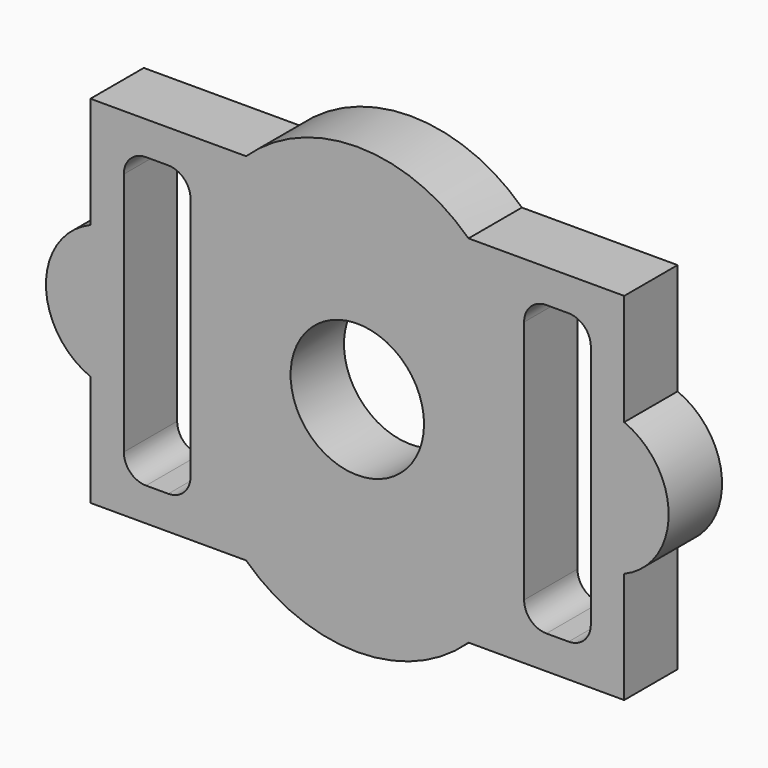
from build123d import *

# Parameters (mm, degrees)
F0_R     = 30
F1_DEPTH = 30


with BuildPart() as f1:
    # F0 (on Front) → F1 (new body)
    with BuildSketch(Plane.XZ):
        with BuildLine():
            Line((-50, 80), (-120, 80))
            Line((-120, 80), (-120, 30))
            ThreePointArc((-120, 30), (-140, 0), (-120, -30))
            Line((-120, -30), (-120, -80))
            Line((-120, -80), (-50, -80))
            ThreePointArc((-50, -80), (0, -100), (50, -80))
            Line((50, -80), (120, -80))
            Line((120, -80), (120, -30))
            ThreePointArc((120, -30), (140, 0), (120, 30))
            Line((120, 30), (120, 80))
            Line((120, 80), (50, 80))
            ThreePointArc((50, 80), (0, 100), (-50, 80))
        make_face()
        with BuildLine():
            ThreePointArc((-105, 55), (-102.071068, 62.071068), (-95, 65))
            Line((-95, 65), (-85, 65))
            ThreePointArc((-85, 65), (-77.928932, 62.071068), (-75, 55))
            Line((-75, 55), (-75, -55))
            ThreePointArc((-75, -55), (-77.928932, -62.071068), (-85, -65))
            Line((-85, -65), (-95, -65))
            ThreePointArc((-95, -65), (-102.071068, -62.071068), (-105, -55))
            Line((-105, -55), (-105, 55))
        make_face(mode=Mode.SUBTRACT)
        Circle(F0_R, mode=Mode.SUBTRACT)
        with BuildLine():
            ThreePointArc((105, -55), (102.071068, -62.071068), (95, -65))
            Line((95, -65), (85, -65))
            ThreePointArc((85, -65), (77.928932, -62.071068), (75, -55))
            Line((75, -55), (75, 55))
            ThreePointArc((75, 55), (77.928932, 62.071068), (85, 65))
            Line((85, 65), (95, 65))
            ThreePointArc((95, 65), (102.071068, 62.071068), (105, 55))
            Line((105, 55), (105, -55))
        make_face(mode=Mode.SUBTRACT)
    extrude(amount=F1_DEPTH)


solid = f1.part
